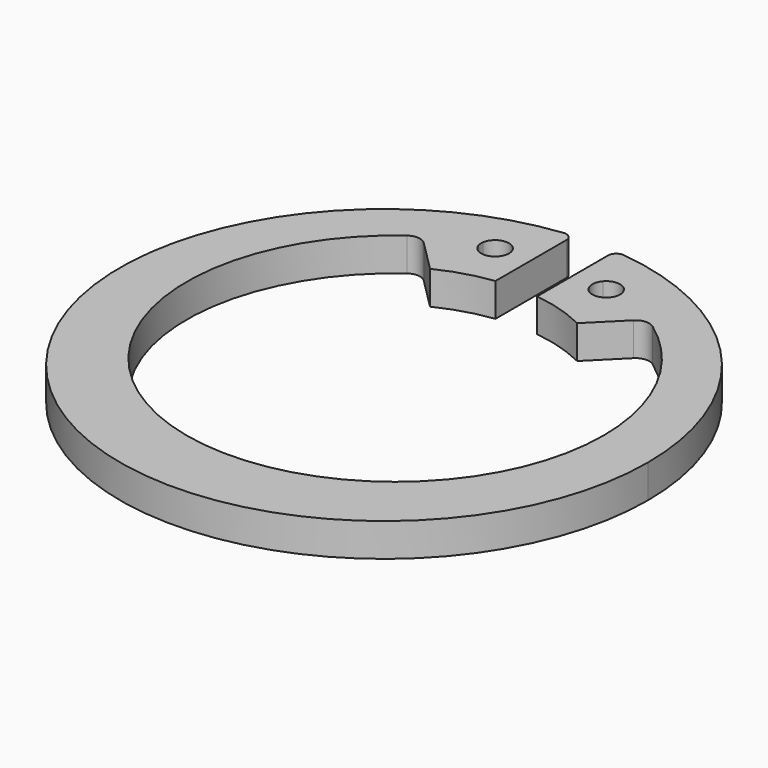
from build123d import *

# Parameters (mm, degrees)
F1_DEPTH = 1.2
F2_R     = 0.3
F3_R     = 0.5


with BuildPart() as f1:
    # F0 (on Top) → F1 (new body)
    with BuildSketch(Plane.XY):
        with BuildLine():
            ThreePointArc((-0.75, 9.4703484624), (-6.4468984791, -6.9776428685), (9.5, 0))
            ThreePointArc((9.5, 0), (6.9776428685, 6.4468984791), (0.75, 9.4703484624))
            Line((0.75, 9.4703484624), (0.75, 7.9624057783))
            ThreePointArc((0.75, 7.9624057783), (1.1863210749, 7.9055818345), (1.61855899, 7.82326886))
            ThreePointArc((1.61855899, 7.82326886), (2.1373605639, 7.9807619738), (2.4946485572, 7.5729575551))
            ThreePointArc((2.4946485572, 7.5729575551), (3.3038970926, 7.2330724043), (4.0678951533, 6.8009704825))
            ThreePointArc((4.0678951533, 6.8009704825), (6.5863196722, 4.0875330208), (7.5, 0.5))
            ThreePointArc((7.5, 0.5), (-3.5875330208, -6.0863196722), (-4.0678951533, 6.8009704825))
            ThreePointArc((-4.0678951533, 6.8009704825), (-3.3038970926, 7.2330724043), (-2.4946485572, 7.5729575551))
            ThreePointArc((-2.4946485572, 7.5729575551), (-2.1373605639, 7.9807619738), (-1.61855899, 7.82326886))
            ThreePointArc((-1.61855899, 7.82326886), (-1.1863210749, 7.9055818345), (-0.75, 7.9624057783))
            Line((-0.75, 7.9624057783), (-0.75, 9.4703484624))
        make_face()
        with BuildLine():
            Line((-0.75, 5.9529404499), (-0.75, 7.9624057783))
            ThreePointArc((-0.75, 7.9624057783), (-1.1863210749, 7.9055818345), (-1.61855899, 7.82326886))
            ThreePointArc((-1.61855899, 7.82326886), (-1.5305745506, 7.6721619804), (-1.5, 7.5))
            ThreePointArc((-1.5, 7.5), (-2.0365767781, 7.0013396554), (-2.4946485572, 7.5729575551))
            ThreePointArc((-2.4946485572, 7.5729575551), (-3.3038970926, 7.2330724043), (-4.0678951533, 6.8009704825))
            Line((-4.0678951533, 6.8009704825), (-2.65, 5.3830753292))
            ThreePointArc((-2.65, 5.3830753292), (-1.7237130167, 5.7470699871), (-0.75, 5.9529404499))
        make_face()
        with BuildLine():
            ThreePointArc((1.61855899, 7.82326886), (1.1863210749, 7.9055818345), (0.75, 7.9624057783))
            Line((0.75, 7.9624057783), (0.75, 5.9529404499))
            ThreePointArc((0.75, 5.9529404499), (1.7237130167, 5.7470699871), (2.65, 5.3830753292))
            Line((2.65, 5.3830753292), (4.0678951533, 6.8009704825))
            ThreePointArc((4.0678951533, 6.8009704825), (3.3038970926, 7.2330724043), (2.4946485572, 7.5729575551))
            ThreePointArc((2.4946485572, 7.5729575551), (2.4986603446, 7.5365767781), (2.5, 7.5))
            ThreePointArc((2.5, 7.5), (1.8278380196, 7.0305745506), (1.61855899, 7.82326886))
        make_face()
    extrude(amount=F1_DEPTH)

    # F2
    f2_edges = [f1.edges().sort_by_distance(p)[0] for p in [
        (-0.75, 9.470348, 0.6),
        (0.75, 9.470348, 0.6),
    ]]
    fillet(f2_edges, radius=F2_R)

    # F3
    f3_edges = [f1.edges().sort_by_distance(p)[0] for p in [
        (-4.067895, 6.80097, 0.6),
        (4.067895, 6.80097, 0.6),
    ]]
    fillet(f3_edges, radius=F3_R)


solid = f1.part
